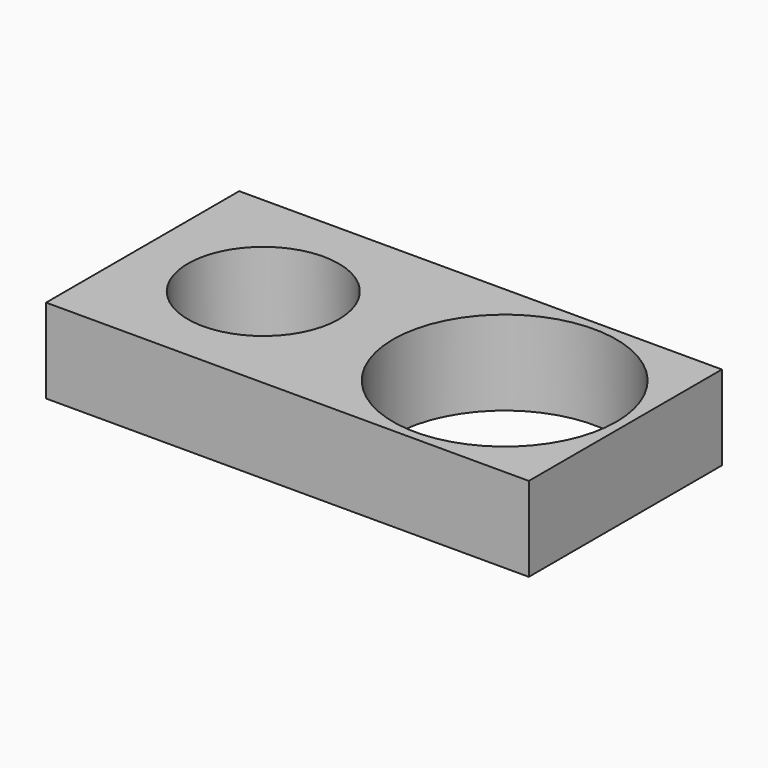
from build123d import *

# Parameters (mm, degrees)
SKETCH_W        = 80
SKETCH_H        = 40
PAD_DEPTH       = 14
SKETCH001_R     = 12.5
POCKET_DEPTH    = 14.001
SKETCH002_R     = 18.5
POCKET001_DEPTH = 14.001


with BuildPart() as part:
    # Sketch → Pad (new body)
    with BuildSketch(Plane.XY):
        with Locations((40, 20)):
            Rectangle(SKETCH_W, SKETCH_H)
    extrude(amount=PAD_DEPTH)

    # Sketch001 (on Face6 of Pad) → Pocket (cut, through all)
    with BuildSketch(Plane.XY.offset(14)):
        with Locations((20, 20)):
            Circle(SKETCH001_R)
    extrude(amount=-POCKET_DEPTH, mode=Mode.SUBTRACT)

    # Sketch002 (on Face5 of Pocket) → Pocket001 (cut, through all)
    with BuildSketch(Plane.XY.offset(14)):
        with Locations((60, 20)):
            Circle(SKETCH002_R)
    extrude(amount=-POCKET001_DEPTH, mode=Mode.SUBTRACT)


with BuildPart() as part_1:
    # Clone placement: moved
    add(part.part.moved(Location((1, 1, -14))))


solid = part_1.part
